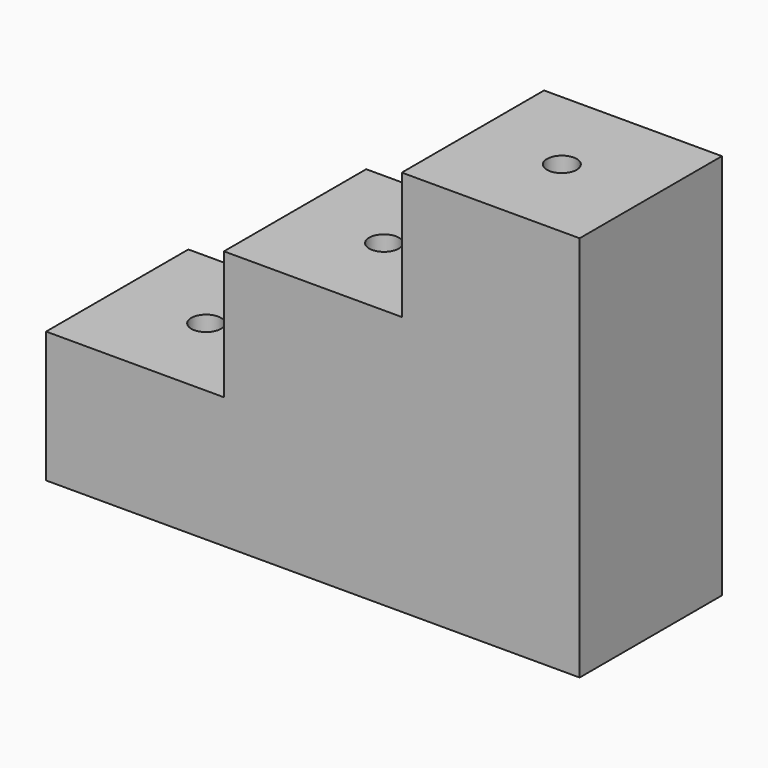
from build123d import *

# Parameters (mm, degrees)
F1_DEPTH = 300
F3_D     = 50
F5_D     = 50
F7_D     = 50


with BuildPart() as f1:
    # F0 (on Front) → F1 (new body)
    with BuildSketch(Plane.XZ):
        Polygon((0, 221.130219), (0, 0), (900, 0), (900, 652.334173), (600, 652.334173), (600, 437.837817), (300, 437.837817), (300, 221.130219), align=None)
    extrude(amount=F1_DEPTH)

    # F3 (through all)
    with Locations(Plane.XY.offset(437.837817)):
        with Locations((450, -150)):
            Hole(F3_D / 2)

    # F5 (through all)
    with Locations(Plane.XY.offset(221.130219)):
        with Locations((150, -150)):
            Hole(F5_D / 2)

    # F7 (through all)
    with Locations(Plane.XY.offset(652.334173)):
        with Locations((750, -150)):
            Hole(F7_D / 2)


solid = f1.part
